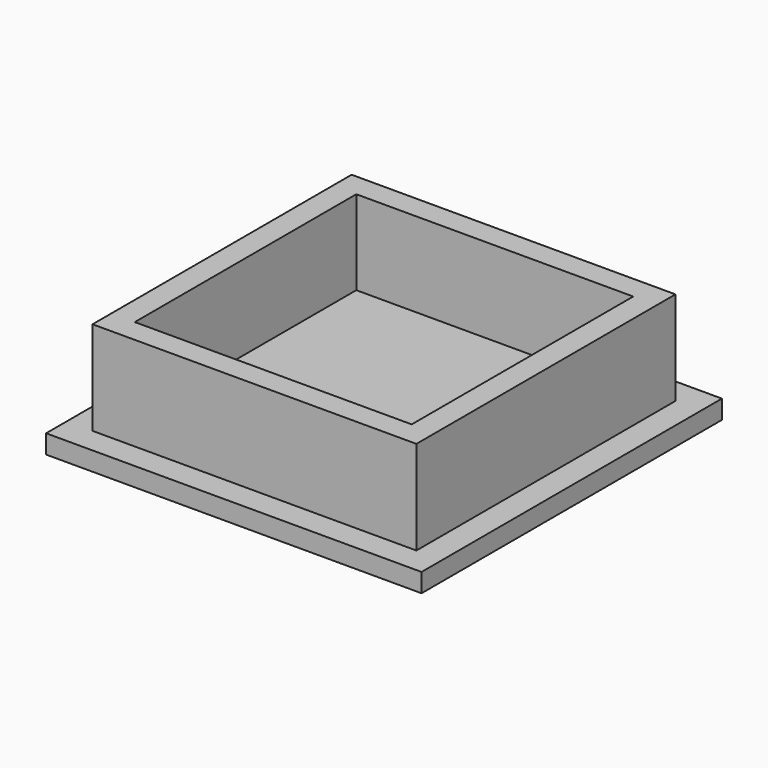
from build123d import *

# Parameters (mm, degrees)
SKETCH_W     = 40
SKETCH_H     = 40
PAD_DEPTH    = 2
SKETCH001_W  = 34.5
SKETCH001_H  = 34.5
PAD001_DEPTH = 10
SKETCH002_W  = 29.5
SKETCH002_H  = 29.5
POCKET_DEPTH = 9


with BuildPart() as part:
    # Sketch → Pad (new body)
    with BuildSketch(Plane.XY):
        Rectangle(SKETCH_W, SKETCH_H)
    extrude(amount=PAD_DEPTH)

    # Sketch001 (on Face6 of Pad) → Pad001 (join)
    with BuildSketch(Plane.XY.offset(2)):
        Rectangle(SKETCH001_W, SKETCH001_H)
    extrude(amount=PAD001_DEPTH)

    # Sketch002 (on Face11 of Pad001) → Pocket (cut)
    with BuildSketch(Plane.XY.offset(12)):
        Rectangle(SKETCH002_W, SKETCH002_H)
    extrude(amount=-POCKET_DEPTH, mode=Mode.SUBTRACT)


solid = part.part
